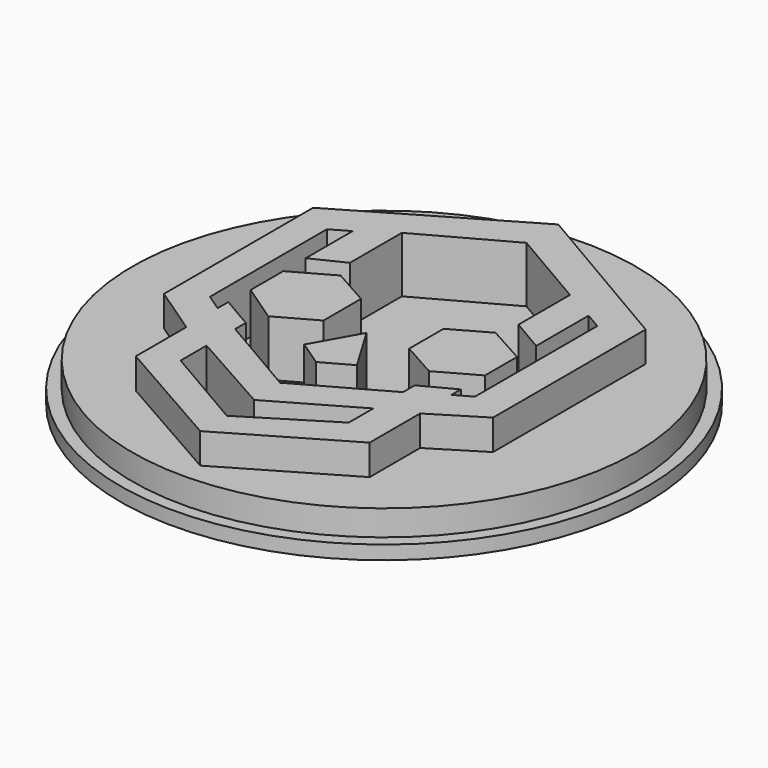
from build123d import *

# Parameters (mm, degrees)
F0_R     = 36.475604
F1_DEPTH = 3.7
F2_DEPTH = 8.1
F3_R     = 38.237687
F4_DEPTH = 2


with BuildPart() as f1:
    # F0 (on Top) → F1 (new body)
    with BuildSketch(Plane.XY):
        Circle(F0_R)
        Polygon((-24.211187, 17.412838), (0, 31.543903), (23.792868, 17.620649), (23.792868, -10.018051), (16.727336, -14.382056), (16.727336, -23.525685), (0, -33.292744), (-17.145654, -23.525685), (-17.145654, -14.382056), (-24.211187, -9.602431), align=None, mode=Mode.SUBTRACT)
        Circle(F0_R)
        Polygon((-24.211187, 17.412838), (0, 31.543903), (23.792868, 17.620649), (23.792868, -10.018051), (16.727336, -14.382056), (16.727336, -23.525685), (0, -33.292744), (-17.145654, -23.525685), (-17.145654, -14.382056), (-24.211187, -9.602431), align=None, mode=Mode.SUBTRACT)
    extrude(amount=F1_DEPTH)

    # F0 (on Top) → F2 (join)
    with BuildSketch(Plane.XY):
        Polygon((23.792868, 17.620649), (0, 31.543903), (-24.211187, 17.412838), (-24.211187, -9.602431), (-17.145654, -14.382056), (-17.145654, -23.525685), (0, -33.292744), (16.727336, -23.525685), (16.727336, -14.382056), (23.792868, -10.018051), align=None)
        Polygon((-12.534934, -21.175375), (-12.534934, -16.483145), (0, -23.52149), (11.818774, -16.734514), (11.818774, -21.175375), (0, -28.480387), align=None, mode=Mode.SUBTRACT)
        Polygon((-17.145654, 15.75036), (-17.145654, 7.23016), (-12.534934, 9.482956), (-12.534934, 18.887546), (0, 25.7752), (11.818774, 18.887546), (11.818774, 9.559093), (16.63455, 6.752592), (16.63455, 16.240098), (18.989254, 14.867842), (18.989254, -7.305608), (16.63455, -8.603099), (16.63455, -6.900904), (11.949172, -9.37198), (11.949172, -11.510435), (-0.347363, -18.396766), (-12.534934, -11.294187), (-12.534934, -9.37198), (-17.276361, -6.608808), (-17.276361, -8.542829), (-19.703554, -6.900904), (-19.703554, 14.25742), align=None, mode=Mode.SUBTRACT)
        Polygon((16.63455, 3.291251), (11.040321, 6.391475), (5.835399, 3.476604), (5.835399, -2.741615), (11.032363, -5.659703), (16.63455, -2.522355), align=None)
        Polygon((-6.036222, 3.375041), (-11.41535, 6.391475), (-17.145654, 3.182378), (-17.145654, -2.741615), (-11.562531, -6.518433), (-6.036222, -3.423579), align=None)
        Polygon((3.750607, -9.602431), (-0.347363, -2.741615), (-4.070303, -9.37198), (-0.347363, -11.890439), align=None)
    extrude(amount=F2_DEPTH)

    # F3 (on Top) → F4 (join)
    with BuildSketch(Plane.XY):
        Circle(F3_R)
    extrude(amount=-F4_DEPTH)


solid = f1.part
